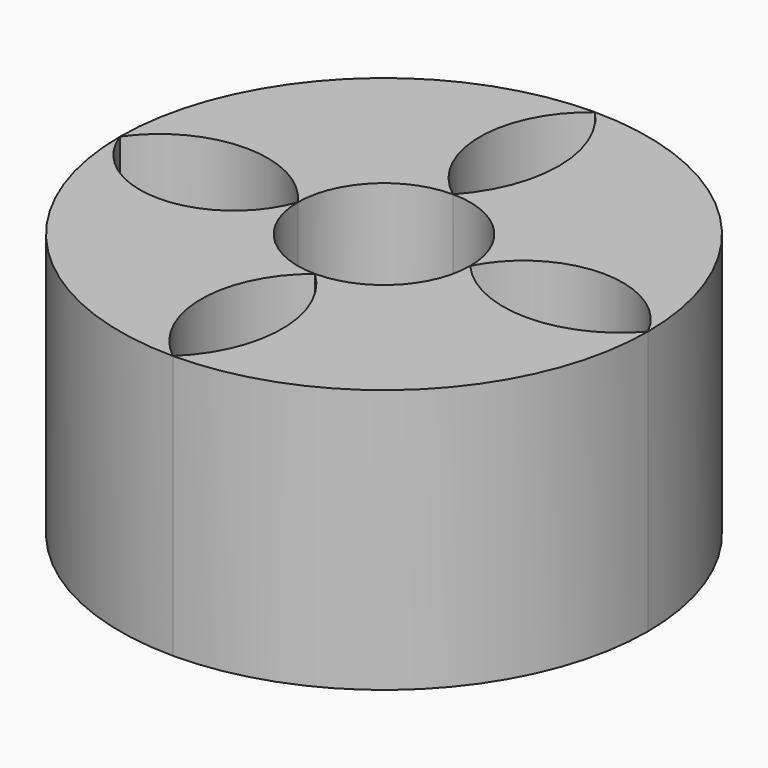
from build123d import *

# Parameters (mm, degrees)
F0_R     = 25.4
F1_DEPTH = 25.4
F2_R     = 8.293867
F3_DEPTH = 25.401
F5_DEPTH = 25.401


with BuildPart() as f1:
    # F0 (on Top) → F1 (new body)
    with BuildSketch(Plane.XY):
        Circle(F0_R)
    extrude(amount=F1_DEPTH)

    # F2 (on face) → F3 (cut, through all)
    with BuildSketch(Plane.XY.offset(25.4)):
        Circle(F2_R)
    extrude(amount=-F3_DEPTH, mode=Mode.SUBTRACT)

    # F4 (on face) → F5 (cut, through all)
    with BuildSketch(Plane.XY.offset(25.4)):
        with BuildLine():
            ThreePointArc((0, 8.293867), (3.342263, 16.846933), (0, 25.4))
            ThreePointArc((0, 25.4), (-4.2678, 16.846933), (0, 8.293867))
        make_face()
        with BuildLine():
            ThreePointArc((8.293867, 0), (16.846933, -3.90691), (25.4, 0))
            ThreePointArc((25.4, 0), (16.846933, 5.284725), (8.293867, 0))
        make_face()
        with BuildLine():
            ThreePointArc((-8.293867, 0), (-16.846933, 4.462035), (-25.4, 0))
            ThreePointArc((-25.4, 0), (-16.846933, -6.056643), (-8.293867, 0))
        make_face()
        with BuildLine():
            ThreePointArc((0, -8.293867), (-4.123797, -16.846933), (0, -25.4))
            ThreePointArc((0, -25.4), (3.658497, -16.846933), (0, -8.293867))
        make_face()
    extrude(amount=-F5_DEPTH, mode=Mode.SUBTRACT)


solid = f1.part
